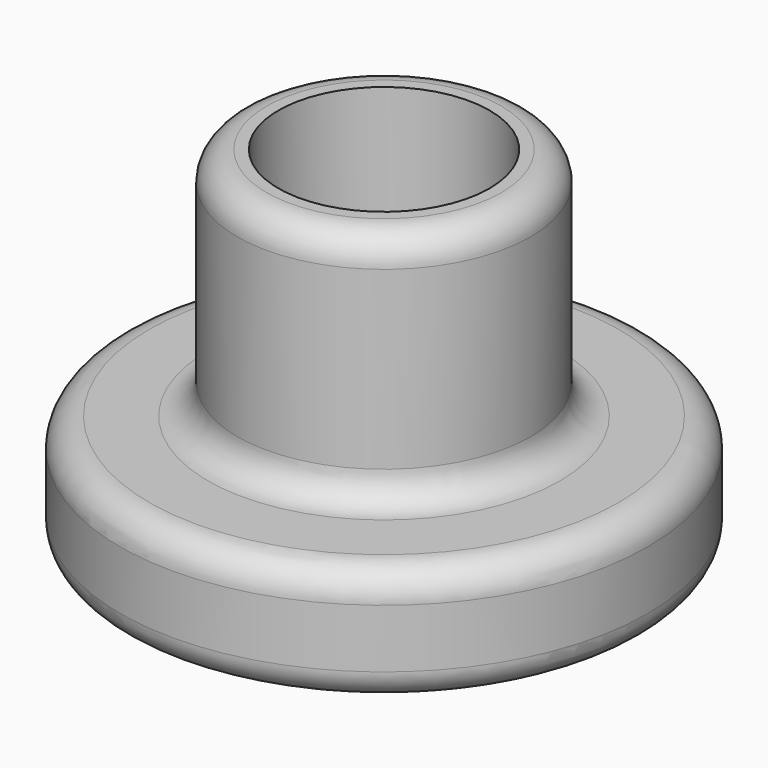
from build123d import *

# Parameters (mm, degrees)
F0_W = 0.7
F0_H = 4
F2_R = 0.5


with BuildPart() as f1:
    # F0 (on Front) → F1 (revolve)
    with BuildSketch(Plane.XZ):
        Polygon((1.8, 0.5), (1.8, 0), (4.5, 0), (4.5, 2), (2.5, 2), (1.8, 2), (1.3, 1.5), (1.3, 1), align=None)
        with Locations((2.15, 4)):
            Rectangle(F0_W, F0_H)
    revolve(axis=Axis((0, 0, 3), (0, 0, 1)))

    # F2
    f2_edges = [f1.edges().sort_by_distance(p)[0] for p in [
        (-2.5, 0, 6),
        (-4.5, 0, 2),
        (-2.5, 0, 2),
        (-4.5, 0, 0),
    ]]
    fillet(f2_edges, radius=F2_R)


solid = f1.part
